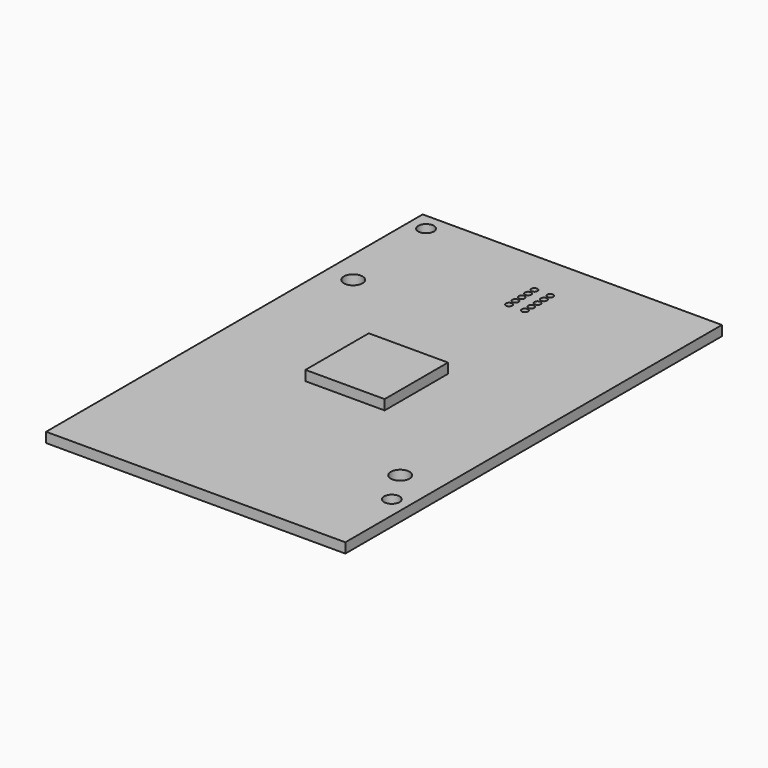
from build123d import *

# Parameters (mm, degrees)
SKETCH008_W                        = 48
SKETCH008_H                        = 75.5
PAD003_DEPTH                       = 1.6
SKETCH009_W                        = 12.7
SKETCH009_H                        = 12.7
PAD005_DEPTH                       = 1.6
SKETCH010_R                        = 1.25
SKETCH010_R_2                      = 1.5
POCKET005_DEPTH                    = 1.601
SKETCH020_R                        = 0.5
POCKET010_DEPTH                    = 180.6483680343
SKETCH020_LINEARPATTERN002_2_R     = 0.5
POCKET010_LINEARPATTERN002_2_DEPTH = 180.6483680343
LINEARPATTERN003_COUNT             = 5
LINEARPATTERN003_PITCH             = 1.27


with BuildPart() as part:
    # Sketch008 → Pad003 (new body)
    with BuildSketch(Plane.XY):
        with Locations((-3, -17.75)):
            Rectangle(SKETCH008_W, SKETCH008_H)
    extrude(amount=PAD003_DEPTH)

    # Sketch009 (on Face6 of Pad003) → Pad005 (join)
    with BuildSketch(Plane.XY.offset(1.6)):
        with Locations((-3.85, -18.15)):
            Rectangle(SKETCH009_W, SKETCH009_H)
    extrude(amount=PAD005_DEPTH)

    # Sketch010 → Pocket005 (cut, through all)
    with BuildSketch(Plane.XY.offset(1.6)):
        with Locations((-24.25, 17.25)):
            Circle(SKETCH010_R)
        with Locations((18.25, -42.75)):
            Circle(SKETCH010_R)
        with Locations((-22.7, 0.7)):
            Circle(SKETCH010_R_2)
        with Locations((15, -37)):
            Circle(SKETCH010_R_2)
    extrude(amount=-POCKET005_DEPTH, mode=Mode.SUBTRACT)

    # Sketch020 (on Face5 of Pocket005) → Pocket010 (cut, through all)
    with BuildSketch(Plane.XY.offset(1.6)):
        with Locations((-3.27, 12.745)):
            Circle(SKETCH020_R)
    pocket010 = extrude(amount=-POCKET010_DEPTH, mode=Mode.SUBTRACT)

    # Sketch020 LinearPattern002 2 → Pocket010 LinearPattern002 2 (cut, through all)
    with BuildSketch(Plane(origin=(2.54, 0, 1.6), x_dir=(1, 0, 0), z_dir=(0, 0, 1))):
        with Locations((-3.27, 12.745)):
            Circle(SKETCH020_LINEARPATTERN002_2_R)
    pocket010_linearpattern002_2 = extrude(amount=-POCKET010_LINEARPATTERN002_2_DEPTH, mode=Mode.SUBTRACT)

    # LinearPattern003: Pocket010, Pocket010 LinearPattern002 2 ×5
    with Locations(*[(0, -i * LINEARPATTERN003_PITCH, 0) for i in range(1, LINEARPATTERN003_COUNT)]):
        add(pocket010, mode=Mode.SUBTRACT)
        add(pocket010_linearpattern002_2, mode=Mode.SUBTRACT)


solid = part.part
